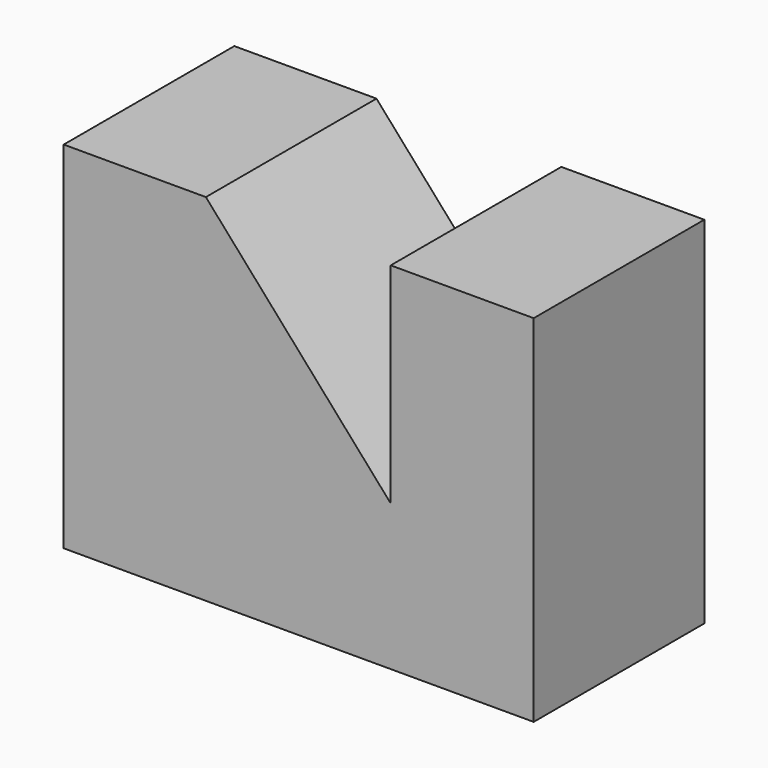
from build123d import *

# Parameters (mm, degrees)
F1_DEPTH = 38.1
F2_W     = 25.543729
F2_H     = 38.1
F3_DEPTH = 63.5


with BuildPart() as f1:
    # F0 (on Front) → F1 (new body)
    with BuildSketch(Plane.XZ):
        Polygon((-32.692146, 28.369883), (-32.692146, -35.130117), (26.308896, -35.130117), (26.308896, -9.730117), (-7.292146, 28.369883), align=None)
    extrude(amount=F1_DEPTH)

    # F2 (on face) → F3 (join)
    with BuildSketch(Plane.XY.offset(28.369883)):
        with Locations((38.501768, -19.05)):
            Rectangle(F2_W, F2_H)
    extrude(amount=-F3_DEPTH)


solid = f1.part
